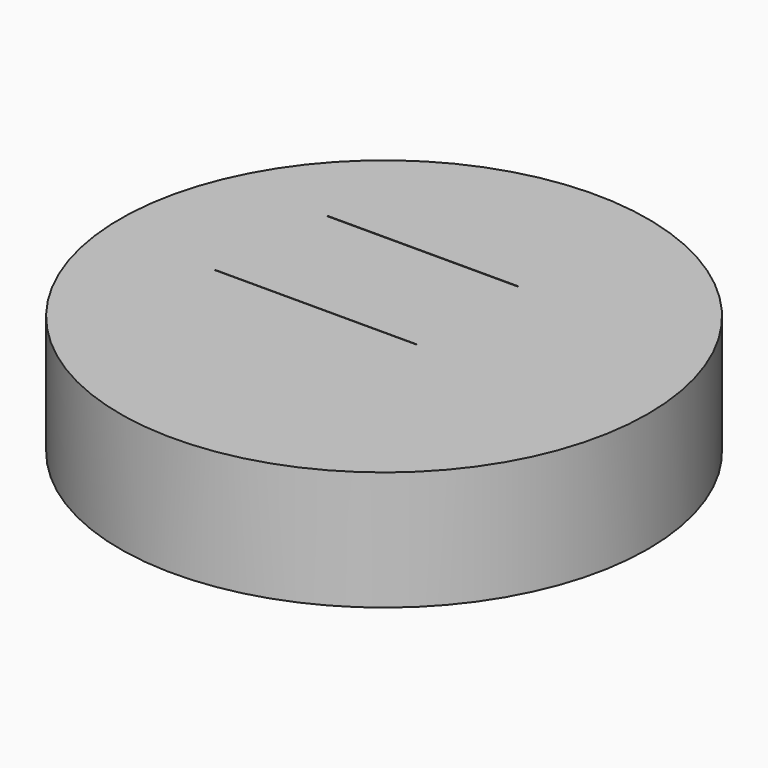
from build123d import *

# Parameters (mm, degrees)
F0_R     = 56.338537
F0_W     = 43.072939
F0_H     = 0.103983
F0_W_2   = 40.760524
F0_H_2   = 0.144385
F1_DEPTH = 25.4


with BuildPart() as f1:
    # F0 (on Top) → F1 (new body)
    with BuildSketch(Plane.XY):
        with Locations((-24.527786, 10.620722)):
            Circle(F0_R)
        with Locations((-35.37745, 6.090215)):
            Rectangle(F0_W, F0_H, mode=Mode.SUBTRACT)
        with Locations((-34.221243, 33.007942)):
            Rectangle(F0_W_2, F0_H_2, mode=Mode.SUBTRACT)
    extrude(amount=F1_DEPTH)


solid = f1.part
